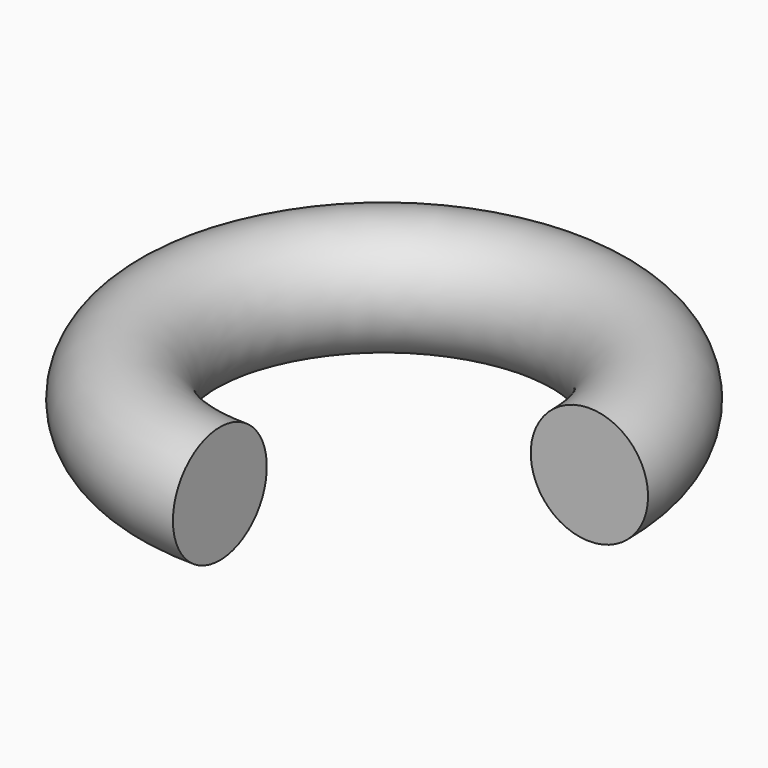
from build123d import *

# Parameters (mm, degrees)
TORUS_R     = 4
TORUS_ANGLE = 270


with BuildPart() as part:
    # Torus → Torus (revolve)
    with BuildSketch(Plane.XZ):
        with Locations((14, 0)):
            Circle(TORUS_R)
    revolve(axis=Axis((0, 0, 0), (0, 0, 1)), revolution_arc=TORUS_ANGLE)


solid = part.part
